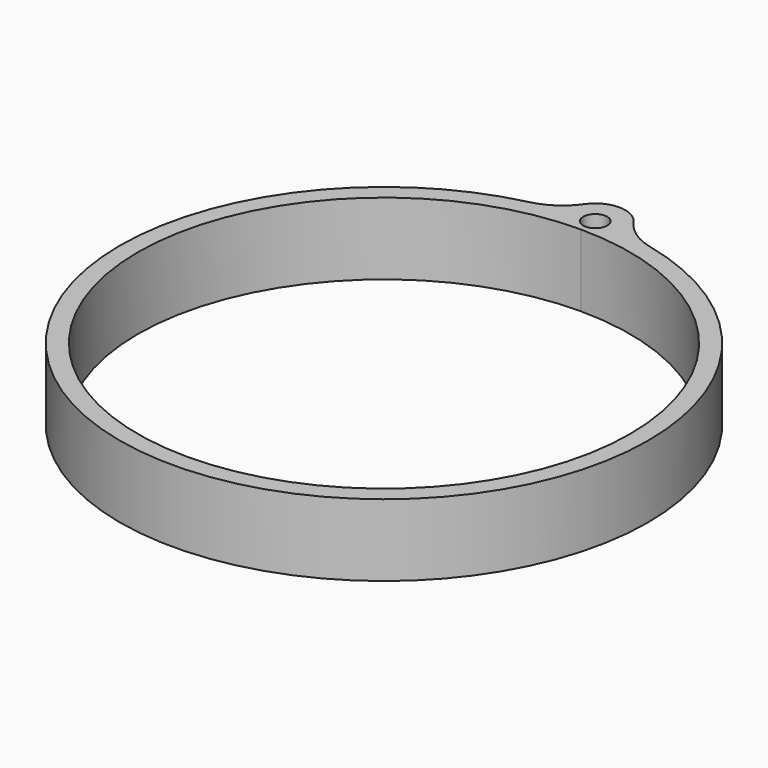
from build123d import *

# Parameters (mm, degrees)
F1_DEPTH = 6


with BuildPart() as f1:
    # F0 (on Top) → F1 (new body)
    with BuildSketch(Plane.XY):
        with BuildLine():
            ThreePointArc((-2.050687, 23.429924), (-3.345865, 22.151504), (-5.01279, 21.421296))
            ThreePointArc((-5.01279, 21.421296), (0, -22), (5.01279, 21.421296))
            ThreePointArc((5.01279, 21.421296), (3.345865, 22.151504), (2.050687, 23.429924))
            ThreePointArc((2.050687, 23.429924), (0, 24.5), (-2.050687, 23.429924))
        make_face()
        with BuildLine():
            ThreePointArc((0, 20.5), (14.495689, 14.495689), (20.5, 0))
            ThreePointArc((20.5, 0), (-14.495689, -14.495689), (0, 20.5))
        make_face(mode=Mode.SUBTRACT)
        with BuildLine():
            ThreePointArc((1, 22), (0.707107, 21.292893), (0, 21))
            ThreePointArc((0, 21), (-0.707107, 22.707107), (1, 22))
        make_face(mode=Mode.SUBTRACT)
    extrude(amount=F1_DEPTH)


solid = f1.part
